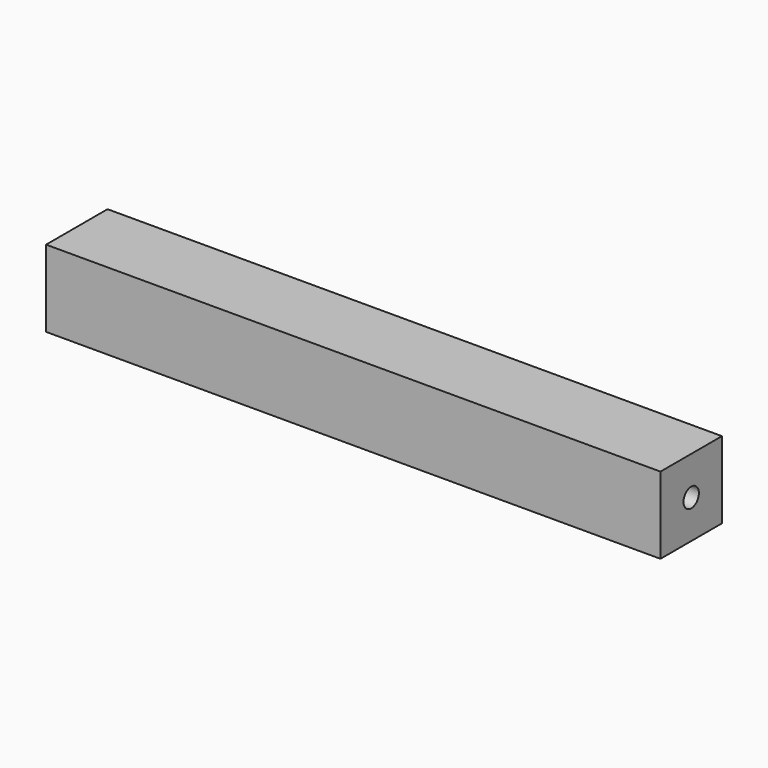
from build123d import *

# Parameters (mm, degrees)
F0_W     = 12.7
F0_H     = 12.7
F1_DEPTH = 101.6
F2_R     = 1.5875
F3_DEPTH = 114.554


with BuildPart() as f1:
    # F0 (on Right) → F1 (new body)
    with BuildSketch(Plane.YZ):
        Rectangle(F0_W, F0_H)
    extrude(amount=F1_DEPTH)

    # F2 (on face) → F3 (cut)
    with BuildSketch(Plane.YZ.offset(101.6)):
        Circle(F2_R)
    extrude(amount=-F3_DEPTH, mode=Mode.SUBTRACT)


solid = f1.part
